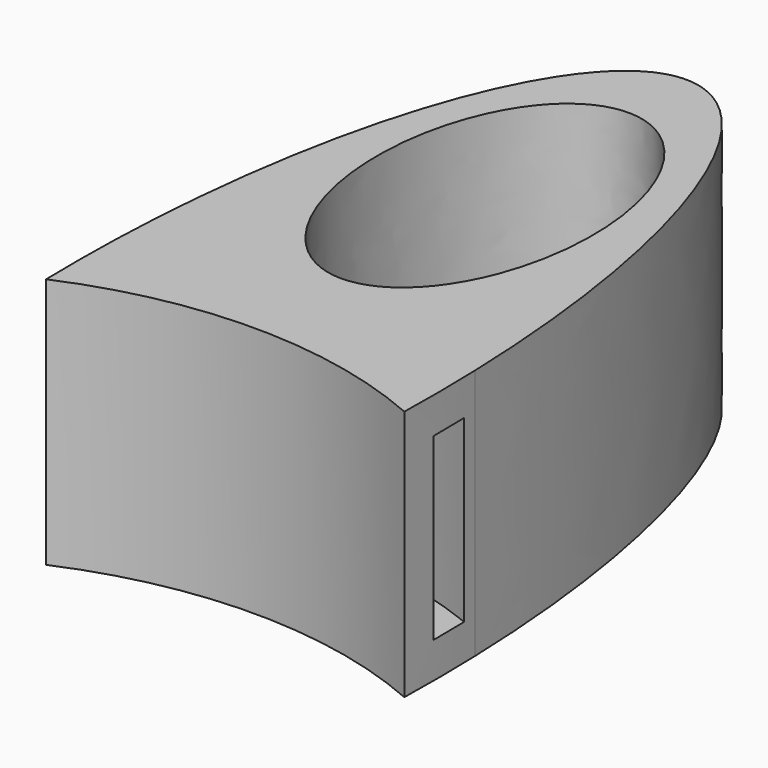
from build123d import *

# Parameters (mm, degrees)
F1_DEPTH = 7
F4_DEPTH = 5


with BuildPart() as f1:
    # F0 (on Top) → F1 (new body)
    with BuildSketch(Plane.XY):
        with BuildLine():
            add(Edge.make_bspline(
                [(4.9880063152, -1.0383337599), (5.0165801896, 0.1970493534), (4.9772345417, 1.4297646139)],
                knots=[4.6431113279, 4.6431113279, 4.6431113279, 4.8078515486, 4.8078515486, 4.8078515486], degree=2, weights=[1, 0.9966095001, 1]))
            add(Edge.make_bspline(
                [(4.9772345417, 1.4297646139), (4.544101506, 15), (0, 15), (-4.544101506, 15), (-4.9772345417, 1.4297646139)],
                knots=[1.666258895, 1.666258895, 1.666258895, 3.1415926536, 3.1415926536, 4.6169264122, 4.6169264122, 4.6169264122], degree=2, weights=[1, 0.7400397425, 1, 0.7400397425, 1]))
            add(Edge.make_bspline(
                [(-4.9772345417, 1.4297646139), (-5.0165801896, 0.1970493534), (-4.9880063152, -1.0383337599)],
                knots=[1.4753337586, 1.4753337586, 1.4753337586, 1.6400739793, 1.6400739793, 1.6400739793], degree=2, weights=[1, 0.9966095001, 1]))
            ThreePointArc((-4.9880063152, -1.0383337599), (0, 0), (4.9880063152, -1.0383337599))
        make_face()
        with BuildLine():
            add(Edge.make_bspline(
                [(0, 3), (5.1961524227, 3), (2.5980762114, 10.5), (0, 18), (-2.5980762114, 10.5), (-5.1961524227, 3), (0, 3)],
                knots=[0, 0, 0, 2.0943951024, 2.0943951024, 4.1887902048, 4.1887902048, 6.2831853072, 6.2831853072, 6.2831853072], degree=2, weights=[1, 0.5, 1, 0.5, 1, 0.5, 1]))
        make_face(mode=Mode.SUBTRACT)
    extrude(amount=F1_DEPTH)

    # F3 (on offset) → F4 (cut)
    with BuildSketch(Plane.XY.offset(6)):
        with BuildLine():
            ThreePointArc((-4.9999789251, -0.0435515648), (0, 1), (4.9999789251, -0.0435515648))
            add(Edge.make_bspline(
                [(4.9999789251, -0.0435515648), (5.0005062127, 0.5012702219), (4.9878569576, 1.0447711406)],
                knots=[4.7094855387, 4.7094855387, 4.7094855387, 4.7820968299, 4.7820968299, 4.7820968299], degree=2, weights=[1, 0.9993410224, 1]))
            ThreePointArc((4.9878569576, 1.0447711406), (0, 2), (-4.9878569576, 1.0447711406))
            add(Edge.make_bspline(
                [(-4.9878569576, 1.0447711406), (-5.0005062127, 0.5012702219), (-4.9999789251, -0.0435515648)],
                knots=[1.5010884773, 1.5010884773, 1.5010884773, 1.5736997685, 1.5736997685, 1.5736997685], degree=2, weights=[1, 0.9993410224, 1]))
        make_face()
    extrude(amount=-F4_DEPTH, mode=Mode.SUBTRACT)


solid = f1.part
